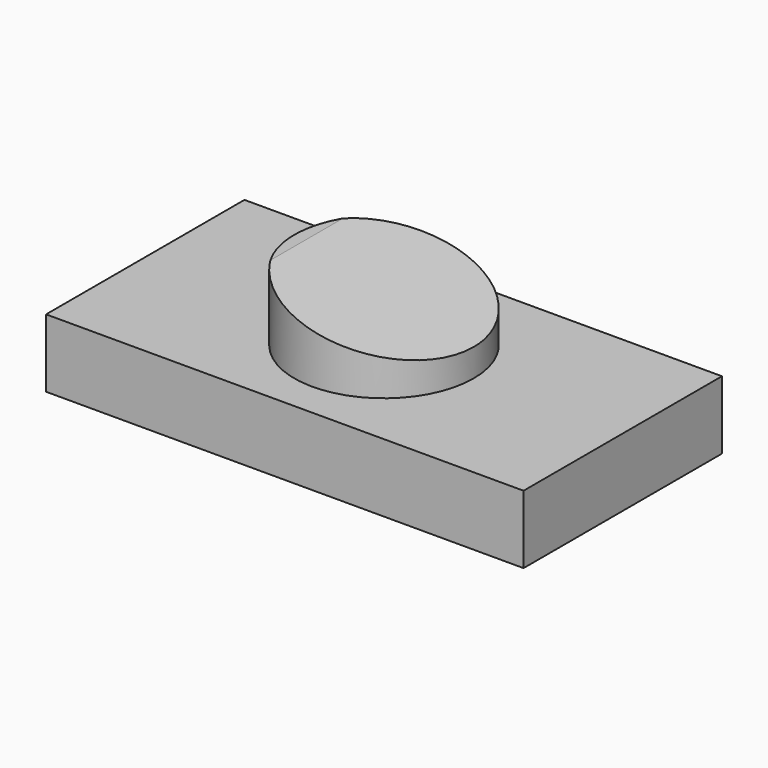
from build123d import *

# Parameters (mm, degrees)
F0_W     = 177.951604
F0_H     = 92.412182
F0_R     = 33.419382
F1_DEPTH = 25.4
F2_DEPTH = 50.8
F4_DEPTH = 38.1


with BuildPart() as f1:
    # F0 (on Top) → F1 (new body)
    with BuildSketch(Plane.XY):
        Rectangle(F0_W, F0_H)
        Circle(F0_R, mode=Mode.SUBTRACT)
        Circle(F0_R)
    extrude(amount=F1_DEPTH)

    # F0 (on Top) → F2 (join)
    with BuildSketch(Plane.XY):
        Circle(F0_R)
    extrude(amount=F2_DEPTH)

    # F3 (on Front) → F4 (cut, symmetric)
    with BuildSketch(Plane.XZ):
        Polygon((44.763692, 56.282684), (-43.013971, 54.241341), (44.763692, 32.953072), align=None)
    extrude(amount=F4_DEPTH, both=True, mode=Mode.SUBTRACT)


solid = f1.part
